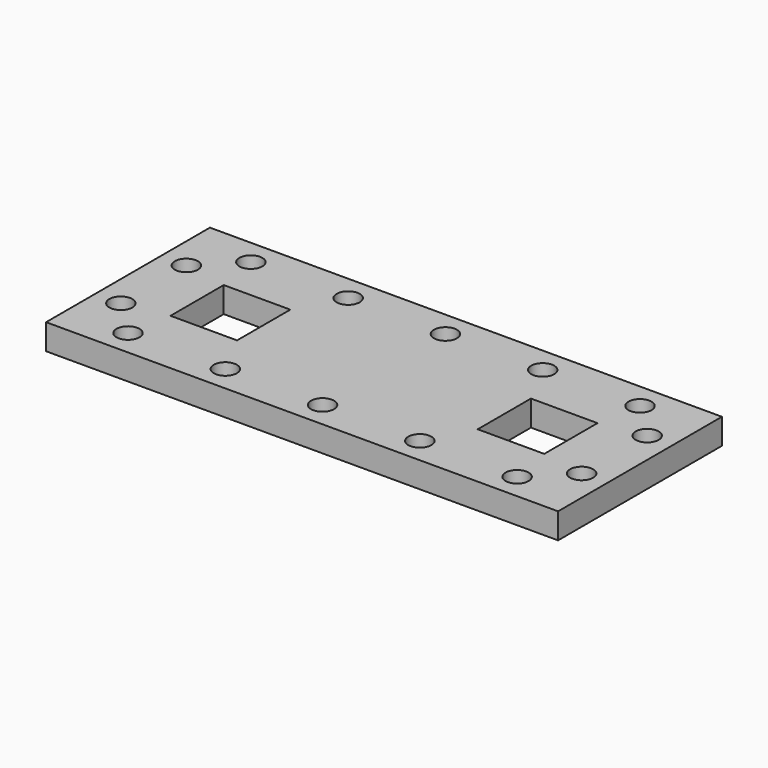
from build123d import *

# Parameters (mm, degrees)
F0_W     = 100
F0_H     = 40
F1_DEPTH = 5
F2_R     = 2.25
F3_DEPTH = 18.9
F5_DEPTH = 0.5
F7_DEPTH = 5


with BuildPart() as f1:
    # F0 (on Top) → F1 (new body)
    with BuildSketch(Plane.XY):
        with Locations((50, -20)):
            Rectangle(F0_W, F0_H)
    extrude(amount=F1_DEPTH)

    # F2 (on Top) → F3 (cut)
    with BuildSketch(Plane.XY):
        with Locations((12, -35)):
            Circle(F2_R)
        with Locations((31, -35)):
            Circle(F2_R)
        with Locations((50, -35)):
            Circle(F2_R)
        with Locations((69, -35)):
            Circle(F2_R)
        with Locations((88, -35)):
            Circle(F2_R)
        with Locations((95, -28)):
            Circle(F2_R)
        with Locations((95, -12)):
            Circle(F2_R)
        with Locations((88, -5)):
            Circle(F2_R)
        with Locations((69, -5)):
            Circle(F2_R)
        with Locations((50, -5)):
            Circle(F2_R)
        with Locations((31, -5)):
            Circle(F2_R)
        with Locations((12, -5)):
            Circle(F2_R)
        with Locations((5, -12)):
            Circle(F2_R)
        with Locations((5, -28)):
            Circle(F2_R)
    extrude(amount=F3_DEPTH, mode=Mode.SUBTRACT)

    # F4 (on face) → F5 (cut)
    with BuildSketch(Plane(origin=(0, 0, 0), x_dir=(1, 0, 0), z_dir=(0, 0, -1))):
        with BuildLine():
            ThreePointArc((91.5, 26.5), (90.972136, 28.736068), (89.5, 30.5))
            ThreePointArc((89.5, 30.5), (88.081139, 31.243416), (86.5, 31.5))
            Line((86.5, 31.5), (13.5, 31.5))
            ThreePointArc((13.5, 31.5), (9.964466, 30.035534), (8.5, 26.5))
            Line((8.5, 26.5), (8.5, 13.5))
            ThreePointArc((8.5, 13.5), (9.964466, 9.964466), (13.5, 8.5))
            Line((13.5, 8.5), (86.5, 8.5))
            ThreePointArc((86.5, 8.5), (90.035534, 9.964466), (91.5, 13.5))
            Line((91.5, 13.5), (91.5, 26.5))
        make_face()
        with BuildLine():
            ThreePointArc((10.5, 26.5), (11.37868, 28.62132), (13.5, 29.5))
            Line((13.5, 29.5), (86.5, 29.5))
            ThreePointArc((86.5, 29.5), (88.62132, 28.62132), (89.5, 26.5))
            Line((89.5, 26.5), (89.5, 13.5))
            ThreePointArc((89.5, 13.5), (88.62132, 11.37868), (86.5, 10.5))
            Line((86.5, 10.5), (13.5, 10.5))
            ThreePointArc((13.5, 10.5), (11.37868, 11.37868), (10.5, 13.5))
            Line((10.5, 13.5), (10.5, 26.5))
        make_face(mode=Mode.SUBTRACT)
    extrude(amount=-F5_DEPTH, mode=Mode.SUBTRACT)

    # F6 (on face) → F7 (cut)
    with BuildSketch(Plane(origin=(0, 0, 0), x_dir=(1, 0, 0), z_dir=(0, 0, -1))):
        Polygon((85, 13.5), (86.5, 13.5), (86.5, 26.5), (73.5, 26.5), (73.5, 13.5), (84, 13.5), align=None)
        Polygon((26.5, 13.5), (26.5, 26.5), (13.5, 26.5), (13.5, 13.5), (16, 13.5), align=None)
    extrude(amount=-F7_DEPTH, mode=Mode.SUBTRACT)


solid = f1.part
